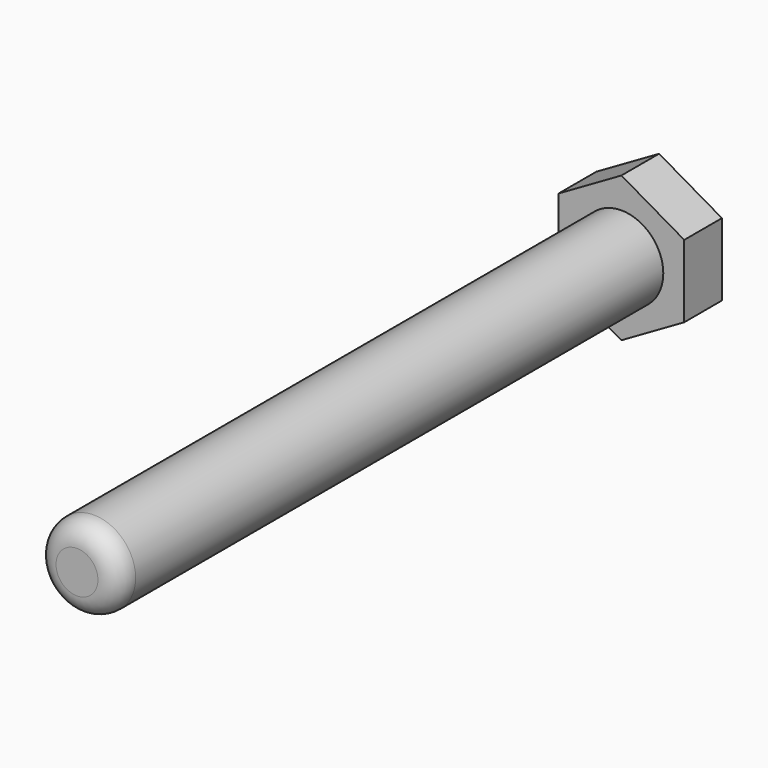
from build123d import *

# Parameters (mm, degrees)
F1_DEPTH = 5
F2_SIZE  = 0.5
F3_R     = 4
F4_DEPTH = 65
F5_R     = 2


with BuildPart() as f1:
    # F0 (on Front) → F1 (new body)
    with BuildSketch(Plane.XZ):
        Polygon((0, 6.9282032303), (-6, 3.4641016151), (-6, 0), (-6, -3.4641016151), (0, -6.9282032303), (3, -5.1961524227), (6, -3.4641016151), (6, 0), (6, 3.4641016151), (3, 5.1961524227), align=None)
    extrude(amount=-F1_DEPTH)

    # F2
    f2_edges = [f1.edges().sort_by_distance(p)[0] for p in [
        (-3, 5, 5.196152),
        (-6, 5, 0),
        (-3, 5, -5.196152),
        (3, 5, -5.196152),
        (6, 5, 0),
        (3, 5, 5.196152),
    ]]
    chamfer(f2_edges, length=F2_SIZE)

    # F3 (on face) → F4 (join)
    with BuildSketch(Plane.XZ):
        Circle(F3_R)
    extrude(amount=F4_DEPTH)

    # F5
    f5_edges = [f1.edges().sort_by_distance(p)[0] for p in [
        (-4, -65, 0),
    ]]
    fillet(f5_edges, radius=F5_R)


solid = f1.part
